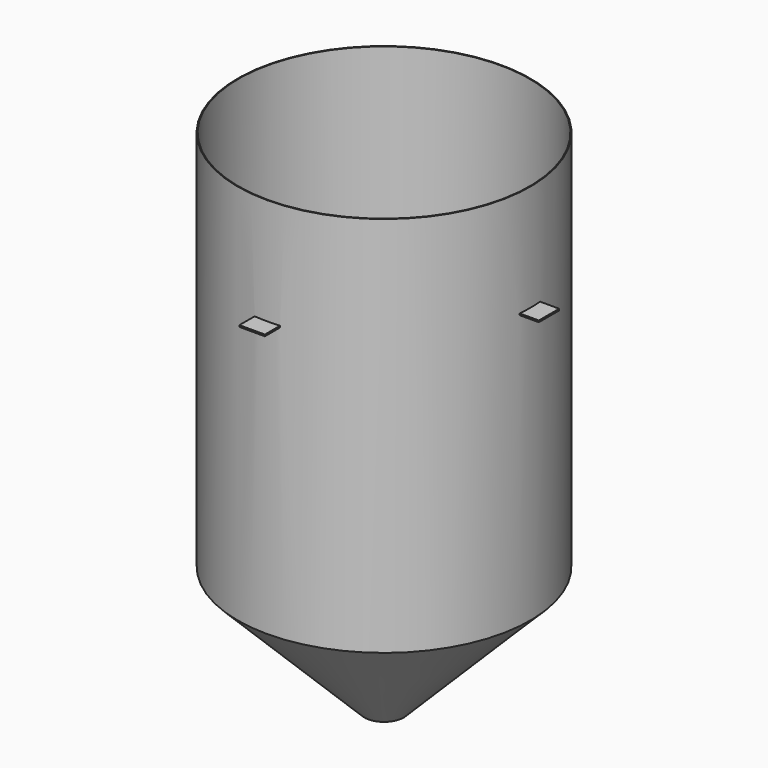
from build123d import *

# Parameters (mm, degrees)
F3_W     = 101.6
F3_H     = 76.2
F3_W_2   = 76.2
F3_H_2   = 101.6
F4_DEPTH = 6.35


with BuildPart() as f1:
    # F0 (on Right) → F1 (revolve)
    with BuildSketch(Plane.YZ):
        Polygon((-581.025, 1524), (-584.2, 1524), (-584.2, 0), (-78.445064, -505.754936), (-76.2, -503.509872), (-581.025, 1.315128), align=None)
    revolve(axis=Axis((0, 0, 0), (0, 0, -1)))

    # F3 (on offset) → F4 (join)
    with BuildSketch(Plane.XY.offset(1092.2)):
        with Locations((0, 620.087113)):
            Rectangle(F3_W, F3_H)
        with Locations((-620.087113, 0)):
            Rectangle(F3_W_2, F3_H_2)
        with Locations((0, -620.087113)):
            Rectangle(F3_W, F3_H)
        with Locations((620.087113, 0)):
            Rectangle(F3_W_2, F3_H_2)
    extrude(amount=F4_DEPTH)


solid = f1.part
